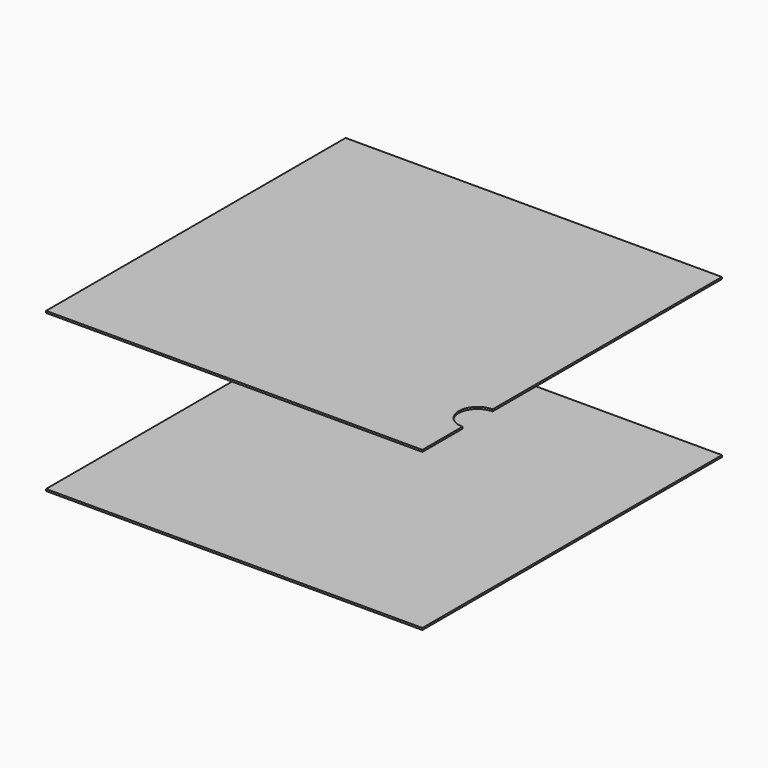
from build123d import *

# Parameters (mm, degrees)
F0_W     = 600
F0_H     = 597
F1_DEPTH = 3
F4_DEPTH = 3


with BuildPart() as f1:
    # F0 (on Top) → F1 (new body)
    with BuildSketch(Plane.XY):
        Rectangle(F0_W, F0_H)
    extrude(amount=F1_DEPTH)


with BuildPart() as f2_1:
    # F2: copy of F1
    add(f1.part.moved(Location((0, 0, 250))))

    # F3 (on face) → F4 (cut, through all)
    with BuildSketch(Plane.XY.offset(253)):
        with BuildLine():
            ThreePointArc((300, -158.5), (270, -188.5), (300, -218.5))
            Line((300, -218.5), (300, -158.5))
        make_face()
    extrude(amount=-F4_DEPTH, mode=Mode.SUBTRACT)


solid = Compound([f1.part, f2_1.part])
